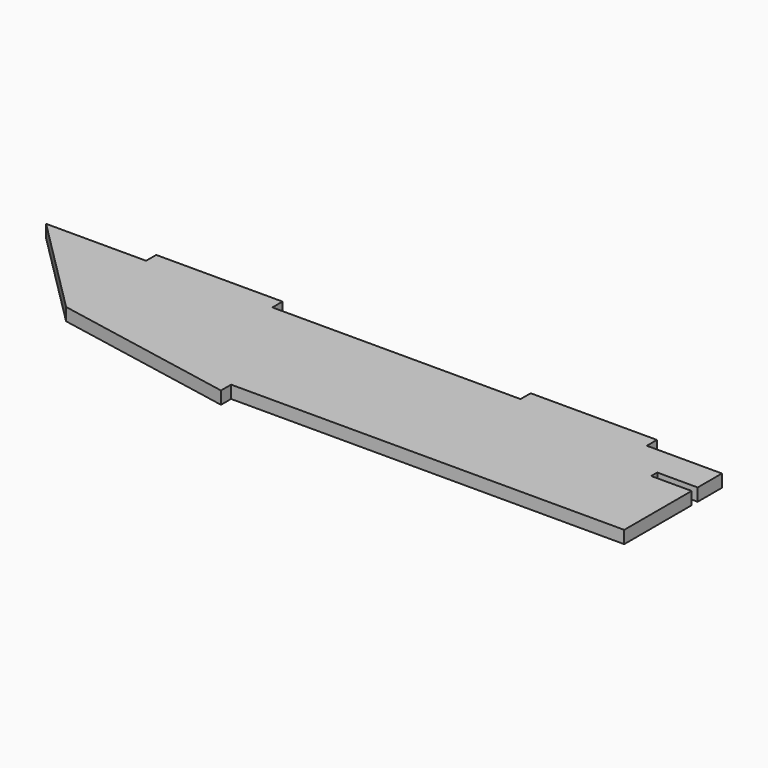
from build123d import *

# Parameters (mm, degrees)
PAD008_DEPTH = 5


with BuildPart() as part:
    # Sketch009 → Pad008 (new body)
    with BuildSketch(Plane.XY):
        with BuildLine():
            add(Edge.make_bspline(
                [(107.468718, -550.773208), (147.085661, -550.773208)],
                knots=[0, 0, 112.3, 112.3], degree=1))
            add(Edge.make_bspline(
                [(147.085661, -550.773208), (147.085661, -545.763764)],
                knots=[0, 0, 14.2, 14.2], degree=1))
            add(Edge.make_bspline(
                [(147.085661, -545.763764), (197.109549, -545.763764)],
                knots=[0, 0, 141.8, 141.8], degree=1))
            add(Edge.make_bspline(
                [(197.109549, -550.773208), (197.109549, -545.763764)],
                knots=[0, 0, 14.2, 14.2], degree=1))
            add(Edge.make_bspline(
                [(197.109549, -550.773208), (295.393436, -550.773208)],
                knots=[0, 0, 278.6, 278.6], degree=1))
            add(Edge.make_bspline(
                [(295.393436, -550.773208), (295.393436, -545.763764)],
                knots=[0, 0, 14.2, 14.2], degree=1))
            add(Edge.make_bspline(
                [(295.393436, -545.763764), (345.417324, -545.763764)],
                knots=[0, 0, 141.8, 141.8], degree=1))
            add(Edge.make_bspline(
                [(345.417324, -550.773208), (345.417324, -545.763764)],
                knots=[0, 0, 14.2, 14.2], degree=1))
            add(Edge.make_bspline(
                [(345.417324, -550.773208), (375.15649, -550.773208)],
                knots=[0, 0, 84.3, 84.3], degree=1))
            add(Edge.make_bspline(
                [(375.15649, -562.767652), (375.15649, -550.773208)],
                knots=[0, 0, 34, 34], degree=1))
            add(Edge.make_bspline(
                [(375.15649, -562.767652), (359.140379, -562.767652)],
                knots=[0, 0, 45.4, 45.4], degree=1))
            add(Edge.make_bspline(
                [(359.140379, -562.767652), (359.140379, -565.766263)],
                knots=[0, 0, 8.5, 8.5], degree=1))
            add(Edge.make_bspline(
                [(359.140379, -565.766263), (375.15649, -565.766263)],
                knots=[0, 0, 45.4, 45.4], degree=1))
            add(Edge.make_bspline(
                [(375.15649, -599.13904), (375.15649, -565.766263)],
                knots=[0, 0, 94.6, 94.6], degree=1))
            add(Edge.make_bspline(
                [(375.15649, -599.13904), (219.440382, -599.13904)],
                knots=[0, 0, 441.4, 441.4], degree=1))
            add(Edge.make_bspline(
                [(219.440382, -599.13904), (219.440382, -604.148485)],
                knots=[0, 0, 14.2, 14.2], degree=1))
            add(Edge.make_bspline(
                [(147.085661, -590.390151), (219.440382, -604.148485)],
                knots=[0, 0, 208.775022, 208.775022], degree=1))
            add(Edge.make_bspline(
                [(107.468718, -550.773208), (147.085661, -590.390151)],
                knots=[0, 0, 158.816183, 158.816183], degree=1))
        make_face()
    extrude(amount=PAD008_DEPTH)


solid = part.part
